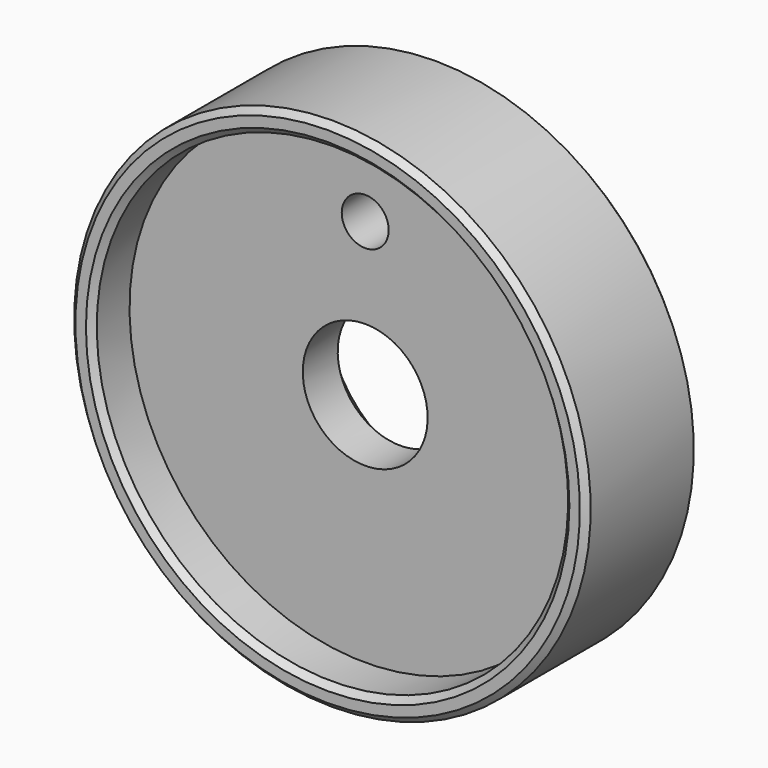
from build123d import *

# Parameters (mm, degrees)
F2_SIZE  = 0.8128
F3_R     = 3.175
F4_DEPTH = 25.4


with BuildPart() as f1:
    # F0 (on Right) → F1 (revolve)
    with BuildSketch(Plane.YZ):
        Polygon((19.05, 34.925), (0, 34.925), (0, 31.877), (6.35, 31.877), (6.35, 8.4455), (12.2555, 8.4455), (19.05, 15.24), align=None)
    revolve(axis=Axis((0, 9.525, 0), (0, 1, 0)))

    # F2
    f2_edges = [f1.edges().sort_by_distance(p)[0] for p in [
        (0, 19.05, -34.925),
        (0, 0, -34.925),
        (0, 9.525, 34.925),
        (0, 0, -31.877),
    ]]
    chamfer(f2_edges, length=F2_SIZE)

    # F3 (on face) → F4 (cut)
    with BuildSketch(Plane(origin=(0, 19.05, 0), x_dir=(-1, 0, 0), z_dir=(0, 1, 0))):
        with Locations((0, 20.6375)):
            Circle(F3_R)
    extrude(amount=-F4_DEPTH, mode=Mode.SUBTRACT)


solid = f1.part
